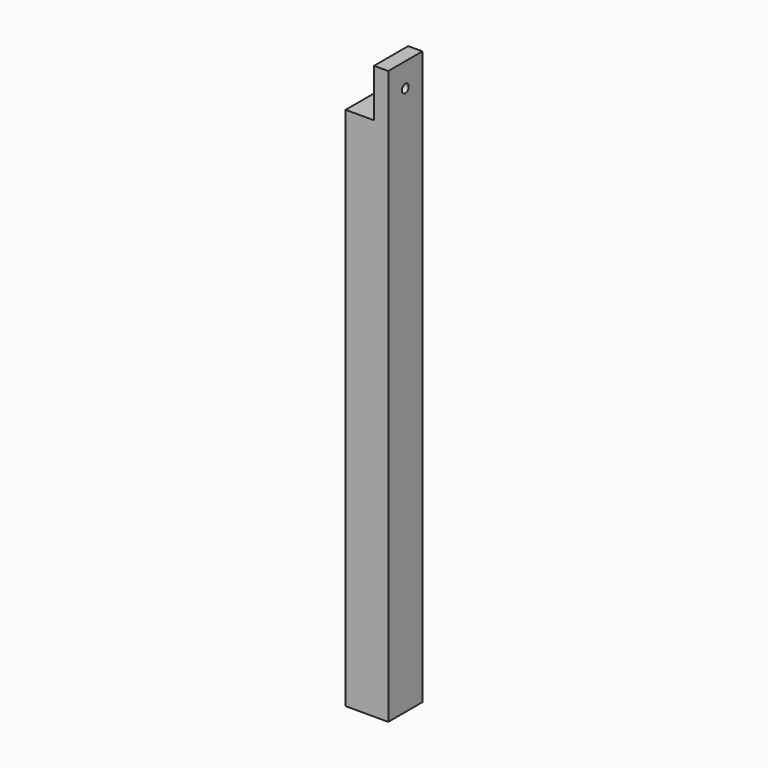
from build123d import *

# Parameters (mm, degrees)
F0_W     = 6.35
F0_H     = 6.35
F0_R     = 1.8415
F1_DEPTH = 78.1375882
F2_DEPTH = 6.35
F4_START = 1.0583333333
F3_W     = 6.35
F3_H     = 7.14375
F3_R     = 0.635
F4_DEPTH = 2.1166666667


with BuildPart() as f1:
    # F0 (on Top) → F1 (new body)
    with BuildSketch(Plane.XY):
        Rectangle(F0_W, F0_H)
        Circle(F0_R, mode=Mode.SUBTRACT)
        Circle(F0_R)
    extrude(amount=F1_DEPTH)

    # F0 (on Top) → F2 (cut)
    with BuildSketch(Plane.XY):
        Circle(F0_R)
    extrude(amount=F2_DEPTH, mode=Mode.SUBTRACT)

    # F3 (on Right) → F4 (join)
    with BuildSketch(Plane.YZ.offset(F4_START)):
        with Locations((0, 81.7094632)):
            Rectangle(F3_W, F3_H)
        with Locations((0, 81.7094632)):
            Circle(F3_R, mode=Mode.SUBTRACT)
    extrude(amount=F4_DEPTH)


solid = f1.part
